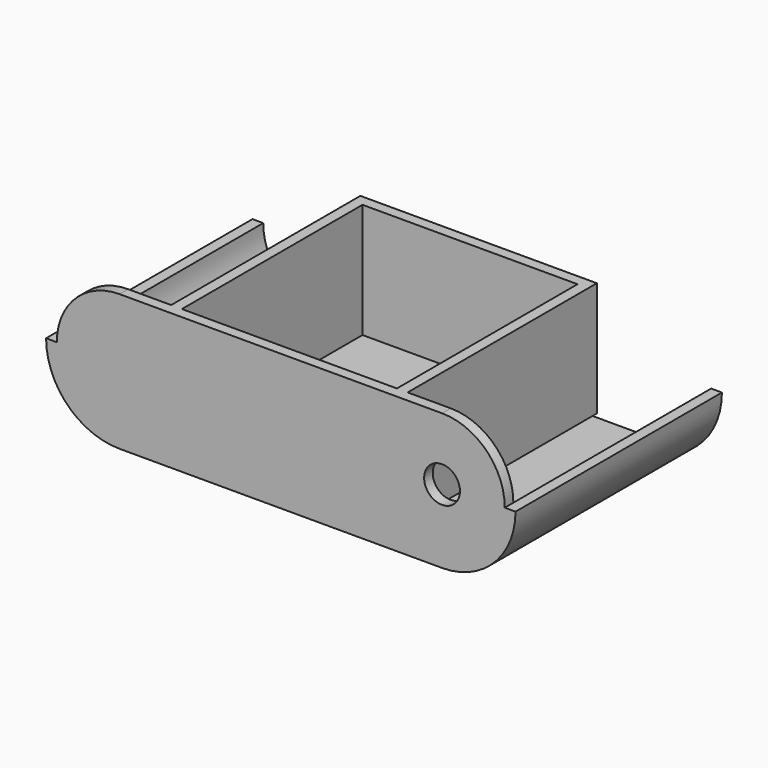
from build123d import *

# Parameters (mm, degrees)
F0_R           = 5
F1_DEPTH       = 3
F2_W           = 66
F2_H           = 3
F3_DEPTH       = 66
F4_W           = 60
F4_H           = 60
F5_DEPTH       = 25
F6_R           = 2.5
F7_DEPTH       = 5.9
F8_R           = 1.5
F9_W           = 90
F9_H           = 3
F10_DEPTH      = 69
F10_DEPTH_BACK = 3
F11_W          = 66
F11_H          = 3
F12_DEPTH      = 29
F13_W          = 3
F13_H          = 63
F14_DEPTH      = 29


with BuildPart() as f1:
    # F0 (on Front) → F1 (new body)
    with BuildSketch(Plane.XZ):
        with BuildLine():
            ThreePointArc((45, -17.5), (62.5, 0), (45, 17.5))
            Line((45, 17.5), (-45, 17.5))
            ThreePointArc((-45, 17.5), (-62.5, 0), (-45, -17.5))
            Line((-45, -17.5), (45, -17.5))
        make_face()
        with Locations((45, 0)):
            Circle(F0_R, mode=Mode.SUBTRACT)
    extrude(amount=F1_DEPTH)

    # F2 (on face) → F3 (join)
    with BuildSketch(Plane(origin=(0, 0, 0), x_dir=(-1, 0, 0), z_dir=(0, 1, 0))):
        with Locations((0, -13)):
            Rectangle(F2_W, F2_H)
    extrude(amount=F3_DEPTH)

    # F4 (on face) → F5 (cut)
    with BuildSketch(Plane(origin=(0, 0, -14.5), x_dir=(1, 0, 0), z_dir=(0, 0, -1))):
        with Locations((0, -33)):
            Rectangle(F4_W, F4_H)
    extrude(amount=-F5_DEPTH, mode=Mode.SUBTRACT)

    # F6 (on face) → F7 (join)
    with BuildSketch(Plane(origin=(0, 0, 0), x_dir=(-1, 0, 0), z_dir=(0, 1, 0))):
        with Locations((45, 0)):
            Circle(F6_R)
    extrude(amount=F7_DEPTH)

    # F8
    f8_edges = [f1.edges().sort_by_distance(p)[0] for p in [
        (-42.5, 5.9, 0),
    ]]
    fillet(f8_edges, radius=F8_R)

    # F9 (on face) → F10 (join, two sides)
    with BuildSketch(Plane(origin=(0, 0, 0), x_dir=(-1, 0, 0), z_dir=(0, 1, 0))) as f10_sk:
        with BuildLine():
            Line((65.5, 0), (62.5, 0))
            ThreePointArc((62.5, 0), (57.374369, -12.374369), (45, -17.5))
            Line((45, -17.5), (45, -20.5))
            ThreePointArc((45, -20.5), (59.495689, -14.495689), (65.5, 0))
        make_face()
        with Locations((0, -19)):
            Rectangle(F9_W, F9_H)
        with BuildLine():
            Line((-45, -20.5), (-45, -17.5))
            ThreePointArc((-45, -17.5), (-57.374369, -12.374369), (-62.5, 0))
            Line((-62.5, 0), (-65.5, 0))
            ThreePointArc((-65.5, 0), (-59.495689, -14.495689), (-45, -20.5))
        make_face()
    extrude(amount=F10_DEPTH)
    extrude(f10_sk.sketch, amount=-F10_DEPTH_BACK)

    # F11 (on face) → F12 (join)
    with BuildSketch(Plane.XY.offset(-11.5)):
        with Locations((0, 64.5)):
            Rectangle(F11_W, F11_H)
    extrude(amount=F12_DEPTH)

    # F13 (on face) → F14 (join)
    with BuildSketch(Plane.XY.offset(-11.5)):
        with Locations((-31.5, 31.5)):
            Rectangle(F13_W, F13_H)
        with Locations((31.5, 31.5)):
            Rectangle(F13_W, F13_H)
    extrude(amount=F14_DEPTH)


solid = f1.part
